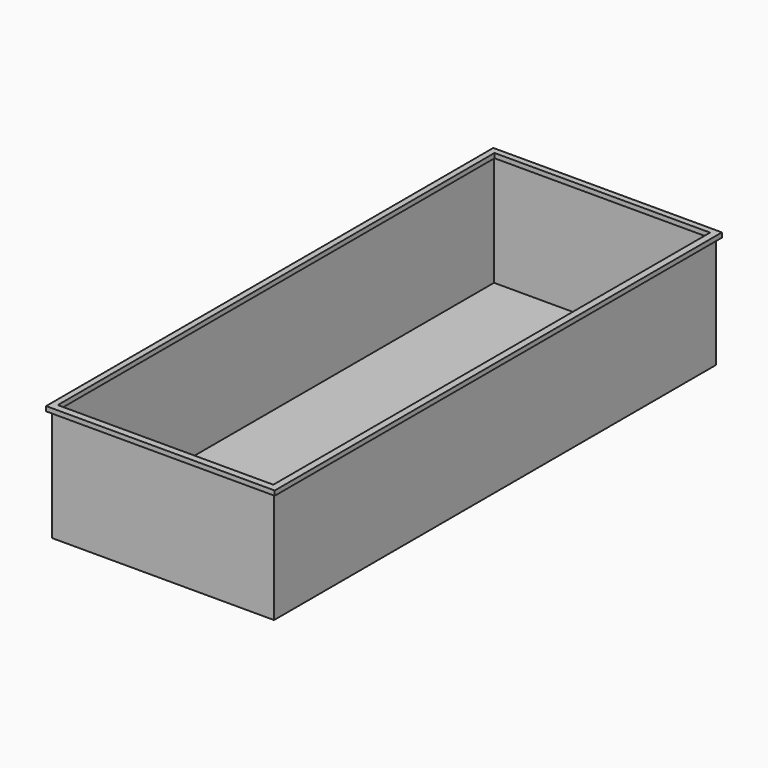
from build123d import *

# Parameters (mm, degrees)
F0_W     = 2384
F0_H     = 5930
F1_DEPTH = 1200
F2_T     = -5
F3_W     = 2454
F3_H     = 6000
F3_W_2   = 2314
F3_H_2   = 5860
F4_DEPTH = 50


with BuildPart() as f1:
    # F0 (on Top) → F1 (new body)
    with BuildSketch(Plane.XY):
        with Locations((1192, 2965)):
            Rectangle(F0_W, F0_H)
    extrude(amount=F1_DEPTH)

    # F2
    f2_openings = [f1.faces().sort_by_distance(p)[0] for p in [
        (1192, 2965, 1200),
    ]]
    offset(amount=F2_T, openings=f2_openings)

    # F3 (on face) → F4 (join)
    with BuildSketch(Plane.XY.offset(1200)):
        with Locations((1192, 2965)):
            Rectangle(F3_W, F3_H)
        with Locations((1187, 2970)):
            Rectangle(F3_W_2, F3_H_2, mode=Mode.SUBTRACT)
    extrude(amount=F4_DEPTH)


solid = f1.part
